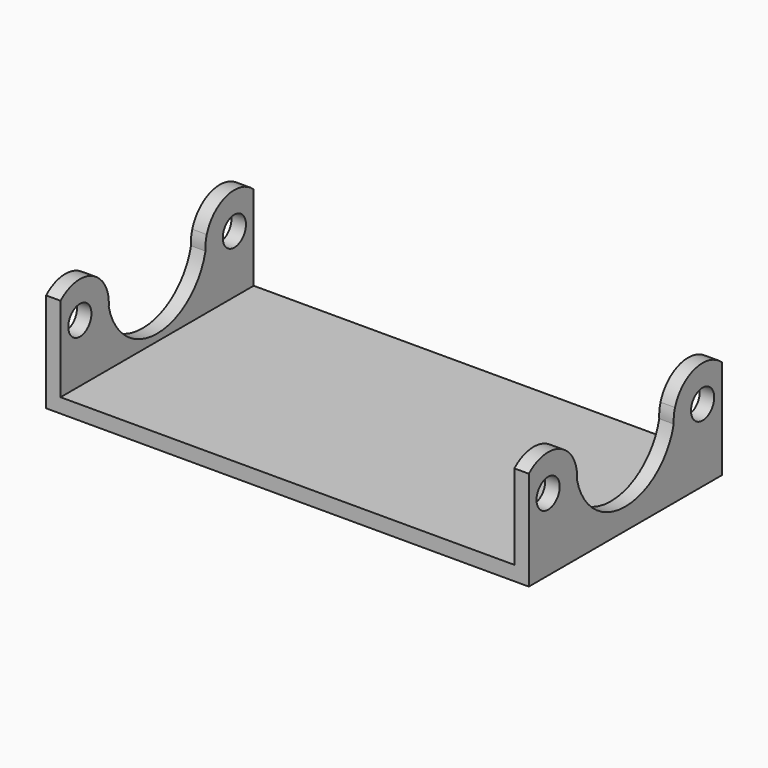
from build123d import *

# Parameters (mm, degrees)
F1_DEPTH = 100
F2_R     = 6
F3_DEPTH = 200.001
F5_DEPTH = 200.001


with BuildPart() as f1:
    # F0 (on Front) → F1 (new body)
    with BuildSketch(Plane.XZ):
        Polygon((-57.490264, 33.289867), (-63.490264, 33.289867), (-63.490264, -16.710133), (136.509736, -16.710133), (136.509736, 33.289867), (130.509736, 33.289867), (130.509736, -10.710133), (-57.490264, -10.710133), align=None)
    extrude(amount=F1_DEPTH)

    # F2 (on face) → F3 (cut, through all)
    with BuildSketch(Plane.YZ.offset(136.509736)):
        with Locations((-90, 13.289867)):
            Circle(F2_R)
        with Locations((-10, 13.289867)):
            Circle(F2_R)
    extrude(amount=-F3_DEPTH, mode=Mode.SUBTRACT)

    # F4 (on face) → F5 (cut, through all)
    with BuildSketch(Plane.YZ.offset(136.509736)):
        with BuildLine():
            ThreePointArc((-75.70933, 17.848019), (-75.178393, 15.596374), (-75, 13.289867))
            ThreePointArc((-75, 13.289867), (-75.012554, 12.676309), (-75.050194, 12.063778))
            ThreePointArc((-75.050194, 12.063778), (-50, -7.861311), (-24.949806, 12.063778))
            ThreePointArc((-24.949806, 12.063778), (-24.903547, 14.988183), (-24.29067, 17.848019))
            ThreePointArc((-24.29067, 17.848019), (-13.945352, 27.761709), (0, 24.470207))
            Line((0, 24.470207), (0, 33.289867))
            Line((0, 33.289867), (-100, 33.289867))
            Line((-100, 33.289867), (-100, 24.470207))
            ThreePointArc((-100, 24.470207), (-86.054648, 27.761709), (-75.70933, 17.848019))
        make_face()
    extrude(amount=-F5_DEPTH, mode=Mode.SUBTRACT)


solid = f1.part
